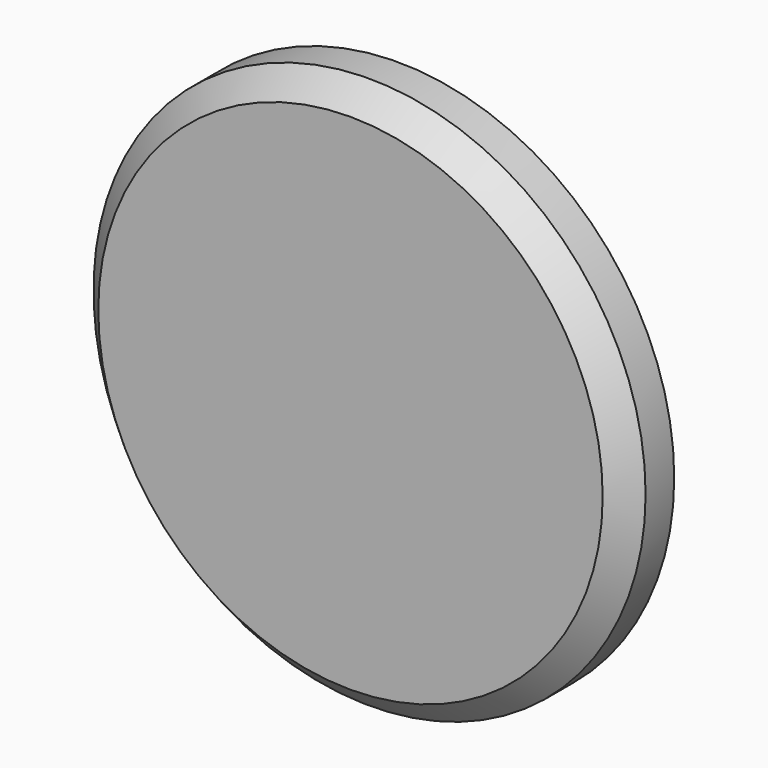
from build123d import *

# Parameters (mm, degrees)
F0_R     = 58.802419
F1_DEPTH = 12.7
F2_SIZE  = 5.08


with BuildPart() as f1:
    # F0 (on Front) → F1 (new body)
    with BuildSketch(Plane.XZ):
        Circle(F0_R)
    extrude(amount=F1_DEPTH)

    # F2
    f2_edges = [f1.edges().sort_by_distance(p)[0] for p in [
        (-58.802419, -12.7, 0),
    ]]
    chamfer(f2_edges, length=F2_SIZE)


solid = f1.part
